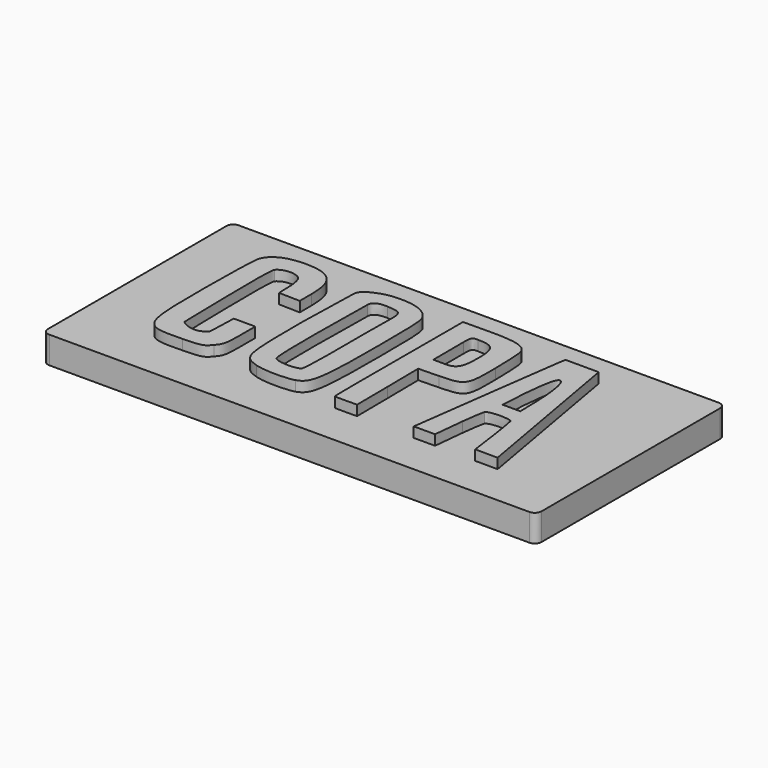
from build123d import *

# Parameters (mm, degrees)
EXTRUDE004_DEPTH = 1.5
EXTRUDE001_DEPTH = 1.5
EXTRUDE_DEPTH    = 1.5
EXTRUDE003_DEPTH = 1.5
EXTRUDE002_DEPTH = 1.5
EXTRUDE006_DEPTH = 1.5
EXTRUDE005_DEPTH = 1.5
BOX_W            = 73
BOX_H            = 35
BOX_DEPTH        = 4
FILLET_R         = 1


with BuildPart() as extrude004:
    # path4138005 → Extrude004 (new body)
    with BuildSketch(Plane(origin=(14.825112, -16.773242, 0), x_dir=(0, 1, 0), z_dir=(0, 0, 1))):
        with BuildLine():
            add(Edge.make_bspline(
                [(-10.635552, -4.431827), (-9.76886, -5.177324), (-9.297163, -5.283222), (-6.843197, -5.283222)],
                knots=[0, 0, 0, 0, 1, 1, 1, 1], degree=3))
            add(Edge.make_bspline(
                [(-6.843197, -5.283222), (-4.040647, -5.283222)],
                knots=[0, 0, 9.930295, 9.930295], degree=1))
            add(Edge.make_bspline(
                [(-4.040647, -5.283222), (-4.040647, -3.695722)],
                knots=[0, 0, 5.625, 5.625], degree=1))
            add(Edge.make_bspline(
                [(-4.040647, -3.695722), (-4.040647, -2.108222)],
                knots=[0, 0, 5.625, 5.625], degree=1))
            add(Edge.make_bspline(
                [(-4.040647, -2.108222), (-8.229009, -1.961927)],
                knots=[0, 0, 14.849702, 14.849702], degree=1))
            add(Edge.make_bspline(
                [(-8.229009, -1.961927), (-9.171623, -1.207529), (-9.3987, 0.338098), (-8.247692, 1.833836)],
                knots=[0, 0, 0, 0, 1, 1, 1, 1], degree=3))
            add(Edge.make_bspline(
                [(-8.247692, 1.833836), (-5.595975, 1.864918), (7.947126, 2.278395), (8.415616, 1.853171)],
                knots=[0, 0, 0, 0, 1, 1, 1, 1], degree=3))
            add(Edge.make_bspline(
                [(8.415616, 1.853171), (9.471727, 0.89459), (9.196232, -1.101124), (8.474335, -1.628988)],
                knots=[0, 0, 0, 0, 1, 1, 1, 1], degree=3))
            add(Edge.make_bspline(
                [(8.474335, -1.628988), (8.11387, -1.892567), (7.038552, -2.108222), (6.084739, -2.108222)],
                knots=[0, 0, 0, 0, 1, 1, 1, 1], degree=3))
            add(Edge.make_bspline(
                [(6.084739, -2.108222), (4.704974, -2.108222), (4.256668, -2.187206), (4.256668, -2.187206)],
                knots=[0, 0, 0, 0, 1, 1, 1, 1], degree=3))
            add(Edge.make_bspline(
                [(4.256668, -2.187206), (4.170772, -5.299866)],
                knots=[0, 0, 11.033311, 11.033311], degree=1))
            add(Edge.make_bspline(
                [(4.170772, -5.299866), (4.170772, -5.299866), (4.169276, -5.283221), (6.383816, -5.283221)],
                knots=[0, 0, 0, 0, 1, 1, 1, 1], degree=3))
            add(Edge.make_bspline(
                [(6.383816, -5.283221), (10.43105, -5.283221), (11.835396, -3.901264), (11.833034, 0.079121)],
                knots=[0, 0, 0, 0, 1, 1, 1, 1], degree=3))
            add(Edge.make_bspline(
                [(11.833034, 0.079121), (11.83151, 2.626396), (10.991619, 4.395923), (9.51817, 4.956128)],
                knots=[0, 0, 0, 0, 1, 1, 1, 1], degree=3))
            add(Edge.make_bspline(
                [(9.51817, 4.956128), (9.018969, 5.145923), (4.709987, 5.299866), (-0.094863, 5.299564)],
                knots=[0, 0, 0, 0, 1, 1, 1, 1], degree=3))
            add(Edge.make_bspline(
                [(-0.094863, 5.299564), (-11.797104, 5.29883), (-11.835396, 5.279221), (-11.695078, -0.639466)],
                knots=[0, 0, 0, 0, 1, 1, 1, 1], degree=3))
            add(Edge.make_bspline(
                [(-11.695078, -0.639466), (-11.630015, -3.383911), (-11.559216, -3.637325), (-10.635552, -4.431827)],
                knots=[0, 0, 0, 0, 1, 1, 1, 1], degree=3))
        make_face()
    extrude(amount=EXTRUDE004_DEPTH)


with BuildPart() as extrude001:
    # path4138002 → Extrude001 (new body)
    with BuildSketch(Plane(origin=(43.239837, -10.866945, 0), x_dir=(0, -1, 0), z_dir=(0, 0, -1))):
        with BuildLine():
            add(Edge.make_bspline(
                [(3.566299, 1.884703), (3.566299, 1.884703), (-0.80281, 1.909566), (-1.992864, 1.912191)],
                knots=[0, 0, 0, 0, 1, 1, 1, 1], degree=3))
            add(Edge.make_bspline(
                [(-1.992864, 1.912191), (-3.596944, 1.915719), (-3.543194, 1.721725), (-3.540949, 0.988579)],
                knots=[0, 0, 0, 0, 1, 1, 1, 1], degree=3))
            add(Edge.make_bspline(
                [(-3.540949, 0.988579), (-3.533662, -1.391691), (-2.907456, -1.915719), (0.0628, -1.915719)],
                knots=[0, 0, 0, 0, 1, 1, 1, 1], degree=3))
            add(Edge.make_bspline(
                [(0.0628, -1.915719), (2.84586, -1.915719), (3.596944, -1.477543), (3.596944, 0.146058)],
                knots=[0, 0, 0, 0, 1, 1, 1, 1], degree=3))
            add(Edge.make_bspline(
                [(3.596944, 0.146058), (3.596944, 1.459365), (3.566299, 1.884703), (3.566299, 1.884703)],
                knots=[0, 0, 0, 0, 1, 1, 1, 1], degree=3))
        make_face()
    extrude(amount=-EXTRUDE001_DEPTH)


with BuildPart() as cut:
    # path4138001 → Extrude (new body)
    with BuildSketch(Plane(origin=(43.201677, -16.837774, 0), x_dir=(0, 1, 0), z_dir=(0, 0, 1))):
        with BuildLine():
            add(Edge.make_bspline(
                [(-6.181319, 1.750289), (-0.452316, 1.819252)],
                knots=[0, 0, 20.301089, 20.301089], degree=1))
            add(Edge.make_bspline(
                [(-0.452316, 1.819252), (-0.380694, -1.194404)],
                knots=[0, 0, 10.681325, 10.681325], degree=1))
            add(Edge.make_bspline(
                [(-0.380694, -1.194404), (-0.28835, -5.079946), (0.005367, -5.11313), (5.196107, -5.082495)],
                knots=[0, 0, 0, 0, 1, 1, 1, 1], degree=3))
            add(Edge.make_bspline(
                [(5.196107, -5.082495), (7.427427, -5.069343), (9.649927, -4.948849), (10.134996, -4.81477)],
                knots=[0, 0, 0, 0, 1, 1, 1, 1], degree=3))
            add(Edge.make_bspline(
                [(10.134996, -4.81477), (11.388721, -4.46823), (11.95815, -3.226012), (11.927738, 1.028119)],
                knots=[0, 0, 0, 0, 1, 1, 1, 1], degree=3))
            add(Edge.make_bspline(
                [(11.927738, 1.028119), (11.898885, 5.064269)],
                knots=[0, 0, 14.301685, 14.301685], degree=1))
            add(Edge.make_bspline(
                [(11.898885, 5.064269), (0.138236, 5.081597)],
                knots=[0, 0, 41.671636, 41.671636], degree=1))
            add(Edge.make_bspline(
                [(0.138236, 5.081597), (-6.330121, 5.091108), (-11.754493, 5.11313), (-11.856321, 5.011299)],
                knots=[0, 0, 0, 0, 1, 1, 1, 1], degree=3))
            add(Edge.make_bspline(
                [(-11.856321, 5.011299), (-11.95815, 4.90947), (-11.885605, 1.701831), (-11.885605, 1.701831)],
                knots=[0, 0, 0, 0, 1, 1, 1, 1], degree=3))
            add(Edge.make_bspline(
                [(-11.885605, 1.701831), (-11.885605, 1.701831), (-9.032388, 1.751395), (-6.181319, 1.750289)],
                knots=[0, 0, 0, 0, 1, 1, 1, 1], degree=3))
        make_face()
    extrude(amount=EXTRUDE_DEPTH)

    # Cut: cut Extrude001
    add(extrude001.part, mode=Mode.SUBTRACT)


with BuildPart() as extrude003:
    # path4138004 → Extrude003 (new body)
    with BuildSketch(Plane(origin=(55.955351, -13.839849, 0), x_dir=(0, -1, 0), z_dir=(0, 0, -1))):
        with BuildLine():
            add(Edge.make_bspline(
                [(4.409264, -1.296004), (4.395706, 1.309251)],
                knots=[0, 0, 9.231345, 9.231345], degree=1))
            add(Edge.make_bspline(
                [(4.395706, 1.309251), (4.395706, 1.309251), (-4.515621, 1.019866), (-4.491238, -0.03606)],
                knots=[0, 0, 0, 0, 1, 1, 1, 1], degree=3))
            add(Edge.make_bspline(
                [(-4.491238, -0.03606), (-4.490307, -1.017403), (0.504568, -1.200387), (1.336133, -1.224892)],
                knots=[0, 0, 0, 0, 1, 1, 1, 1], degree=3))
            add(Edge.make_bspline(
                [(1.336133, -1.224892), (4.515621, -1.309251), (4.409263, -1.296004), (4.409264, -1.296004)],
                knots=[0, 0, 0, 0, 1, 1, 1, 1], degree=3))
        make_face()
    extrude(amount=-EXTRUDE003_DEPTH)


with BuildPart() as cut001:
    # path4138003 → Extrude002 (new body)
    with BuildSketch(Plane(origin=(56.230627, -16.942613, 0), x_dir=(0, 1, 0), z_dir=(0, 0, 1))):
        with BuildLine():
            add(Edge.make_bspline(
                [(-7.465079, 2.618932), (-5.852156, 2.426945), (-4.211309, 2.177917), (-4.029474, 2.065536)],
                knots=[0, 0, 0, 0, 1, 1, 1, 1], degree=3))
            add(Edge.make_bspline(
                [(-4.029474, 2.065536), (-3.515748, 1.748036), (-3.450315, -1.485742), (-3.981101, -1.689425)],
                knots=[0, 0, 0, 0, 1, 1, 1, 1], degree=3))
            add(Edge.make_bspline(
                [(-3.981101, -1.689425), (-4.231157, -1.785377), (-6.25439, -2.106967), (-8.05573, -2.361921)],
                knots=[0, 0, 0, 0, 1, 1, 1, 1], degree=3))
            add(Edge.make_bspline(
                [(-8.05573, -2.361921), (-11.638184, -2.868961), (-11.990516, -2.90337), (-11.990516, -2.90337)],
                knots=[0, 0, 0, 0, 1, 1, 1, 1], degree=3))
            add(Edge.make_bspline(
                [(-11.990516, -2.90337), (-12.003724, -6.226195)],
                knots=[0, 0, 11.773883, 11.773883], degree=1))
            add(Edge.make_bspline(
                [(-12.003724, -6.226195), (12.003724, -1.976055)],
                knots=[0, 0, 86.388504, 86.388504], degree=1))
            add(Edge.make_bspline(
                [(12.003724, -1.976055), (12.003724, 2.92921)],
                knots=[0, 0, 17.38086, 17.38086], degree=1))
            add(Edge.make_bspline(
                [(12.003724, 2.92921), (10.857196, 3.127169)],
                knots=[0, 0, 4.12261, 4.12261], degree=1))
            add(Edge.make_bspline(
                [(10.857196, 3.127169), (10.226606, 3.236045), (5.583168, 3.874234), (0.538446, 4.545367)],
                knots=[0, 0, 0, 0, 1, 1, 1, 1], degree=3))
            add(Edge.make_bspline(
                [(0.538446, 4.545367), (-4.506276, 5.216502), (-9.378168, 5.86924), (-10.28798, 5.995901)],
                knots=[0, 0, 0, 0, 1, 1, 1, 1], degree=3))
            add(Edge.make_bspline(
                [(-10.28798, 5.995901), (-11.942183, 6.226195)],
                knots=[0, 0, 5.917877, 5.917877], degree=1))
            add(Edge.make_bspline(
                [(-11.942183, 6.226195), (-11.939276, 3.076727)],
                knots=[0, 0, 11.159535, 11.159535], degree=1))
            add(Edge.make_bspline(
                [(-11.939276, 3.076727), (-7.465081, 2.618932), (-8.829077, 2.782415), (-7.465081, 2.618932)],
                knots=[0, 0, 0, 0, 1, 1, 1, 1], degree=3))
            add(Edge.make_bspline(
                [(-7.465081, 2.618932), (-7.465079, 2.618932)],
                knots=[0, 0, 1e-05, 1e-05], degree=1))
        make_face()
    extrude(amount=EXTRUDE002_DEPTH)

    # Cut001: cut Extrude003
    add(extrude003.part, mode=Mode.SUBTRACT)


with BuildPart() as extrude006:
    # path4138007 → Extrude006 (new body)
    with BuildSketch(Plane(origin=(29.131699, -16.742442, 0), x_dir=(0, -1, 0), z_dir=(0, 0, -1))):
        with BuildLine():
            add(Edge.make_bspline(
                [(8.801852, 2.104147), (8.253628, 2.652371), (-3.686246, 2.353827), (-8.31039, 2.296753)],
                knots=[0, 0, 0, 0, 1, 1, 1, 1], degree=3))
            add(Edge.make_bspline(
                [(-8.31039, 2.296753), (-9.280889, 2.284775), (-9.452974, 1.017541), (-9.382873, 0.198037)],
                knots=[0, 0, 0, 0, 1, 1, 1, 1], degree=3))
            add(Edge.make_bspline(
                [(-9.382873, 0.198037), (-9.139048, -2.652371), (-9.215901, -1.912746), (-2.634069, -1.961511)],
                knots=[0, 0, 0, 0, 1, 1, 1, 1], degree=3))
            add(Edge.make_bspline(
                [(-2.634069, -1.961511), (3.406105, -2.006263), (8.599827, -2.001775), (8.905299, -1.696304)],
                knots=[0, 0, 0, 0, 1, 1, 1, 1], degree=3))
            add(Edge.make_bspline(
                [(8.905299, -1.696304), (9.452974, -1.148629), (9.349528, 1.556471), (8.801852, 2.104147)],
                knots=[0, 0, 0, 0, 1, 1, 1, 1], degree=3))
        make_face()
    extrude(amount=-EXTRUDE006_DEPTH)


with BuildPart() as cut002:
    # path4138006 → Extrude005 (new body)
    with BuildSketch(Plane(origin=(28.927778, -16.819693, 0), x_dir=(0, 1, 0), z_dir=(0, 0, 1))):
        with BuildLine():
            add(Edge.make_bspline(
                [(-11.550549, -3.207591), (-11.031603, -4.842643), (-9.628158, -5.291667), (0.174044, -5.291667)],
                knots=[0, 0, 0, 0, 1, 1, 1, 1], degree=3))
            add(Edge.make_bspline(
                [(0.174044, -5.291667), (8.805676, -5.291667), (9.366692, -5.251958), (10.220191, -4.580594)],
                knots=[0, 0, 0, 0, 1, 1, 1, 1], degree=3))
            add(Edge.make_bspline(
                [(10.220191, -4.580594), (11.45292, -3.610932), (11.986169, -1.775), (11.815156, 0.91072)],
                knots=[0, 0, 0, 0, 1, 1, 1, 1], degree=3))
            add(Edge.make_bspline(
                [(11.815156, 0.91072), (11.791285, 1.934117), (10.937411, 5.011754), (9.58337, 5.047842)],
                knots=[0, 0, 0, 0, 1, 1, 1, 1], degree=3))
            add(Edge.make_bspline(
                [(9.58337, 5.047842), (6.851572, 5.12065), (0.212218, 5.291667), (0.212218, 5.291667)],
                knots=[0, 0, 0, 0, 1, 1, 1, 1], degree=3))
            add(Edge.make_bspline(
                [(0.212218, 5.291667), (-10.303948, 5.291667), (-10.592928, 5.170232), (-11.461073, 2.675416)],
                knots=[0, 0, 0, 0, 1, 1, 1, 1], degree=3))
            add(Edge.make_bspline(
                [(-11.461073, 2.675416), (-11.885747, 1.455021), (-11.980969, -1.851454), (-11.550549, -3.207591)],
                knots=[0, 0, 0, 0, 1, 1, 1, 1], degree=3))
        make_face()
    extrude(amount=EXTRUDE005_DEPTH)

    # Cut002: cut Extrude006
    add(extrude006.part, mode=Mode.SUBTRACT)


with BuildPart() as fillet_body:
    # Box → Box (new body)
    with BuildSketch(Plane(origin=(0, -35, -4), x_dir=(1, 0, 0), z_dir=(0, 0, 1))):
        with Locations((36.5, 17.5)):
            Rectangle(BOX_W, BOX_H)
    extrude(amount=BOX_DEPTH)

    # Fillet
    fillet_edges = [fillet_body.edges().sort_by_distance(p)[0] for p in [
        (0, -35, -2),
        (0, 0, -2),
        (73, -35, -2),
        (73, 0, -2),
    ]]
    fillet(fillet_edges, radius=FILLET_R)


solid = Compound([extrude004.part, cut.part, cut001.part, cut002.part, fillet_body.part])
